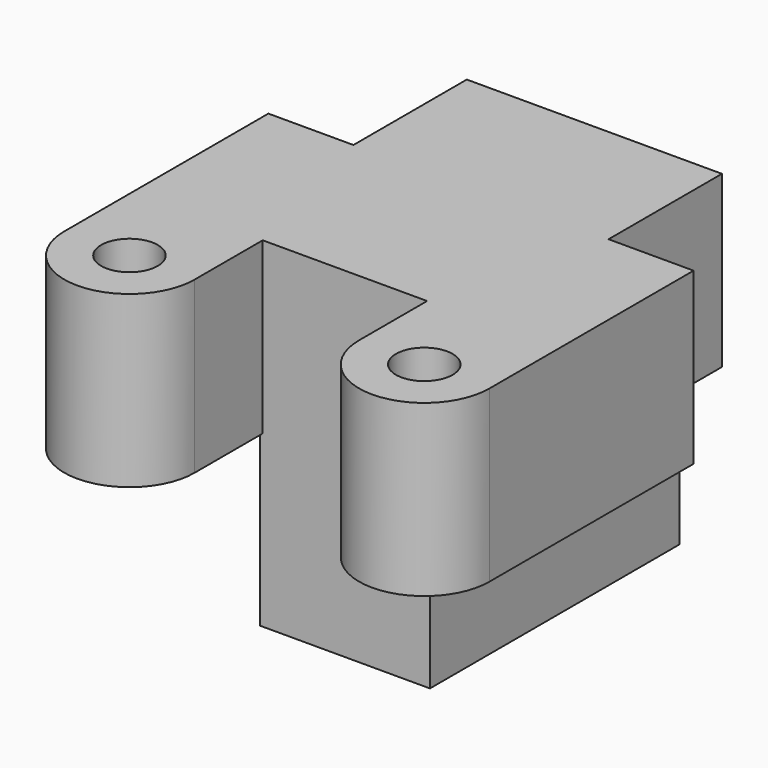
from build123d import *

# Parameters (mm, degrees)
F1_DEPTH = 55
F2_W     = 15
F2_H     = 25
F3_DEPTH = 57.6
F4_R     = 5
F5_DEPTH = 30


with BuildPart() as f1:
    # F0 (on Front) → F1 (new body)
    with BuildSketch(Plane.XZ):
        Polygon((-37.5, 30), (-37.5, 0), (-15, 0), (-15, -30), (0, -30), (15, -30), (15, 0), (37.5, 0), (37.5, 30), (0, 30), align=None)
    extrude(amount=-F1_DEPTH)

    # F2 (on face) → F3 (cut)
    with BuildSketch(Plane.XY.offset(30)):
        with Locations((-30, 42.5)):
            Rectangle(F2_W, F2_H)
        with Locations((30, 42.5)):
            Rectangle(F2_W, F2_H)
    extrude(amount=-F3_DEPTH, mode=Mode.SUBTRACT)

    # F4 (on face) → F5 (join)
    with BuildSketch(Plane.XY.offset(30)):
        with BuildLine():
            Line((-14.5, 0), (-37.5, 0))
            Line((-37.5, 0), (-37.5, -15))
            ThreePointArc((-37.5, -15), (-26, -26.5), (-14.5, -15))
            Line((-14.5, -15), (-14.5, 0))
        make_face()
        with Locations((-26, -15)):
            Circle(F4_R, mode=Mode.SUBTRACT)
        with BuildLine():
            Line((37.5, 0), (14.5, 0))
            Line((14.5, 0), (14.5, -15))
            ThreePointArc((14.5, -15), (26, -26.5), (37.5, -15))
            Line((37.5, -15), (37.5, 0))
        make_face()
        with Locations((26, -15)):
            Circle(F4_R, mode=Mode.SUBTRACT)
    extrude(amount=-F5_DEPTH)


solid = f1.part
